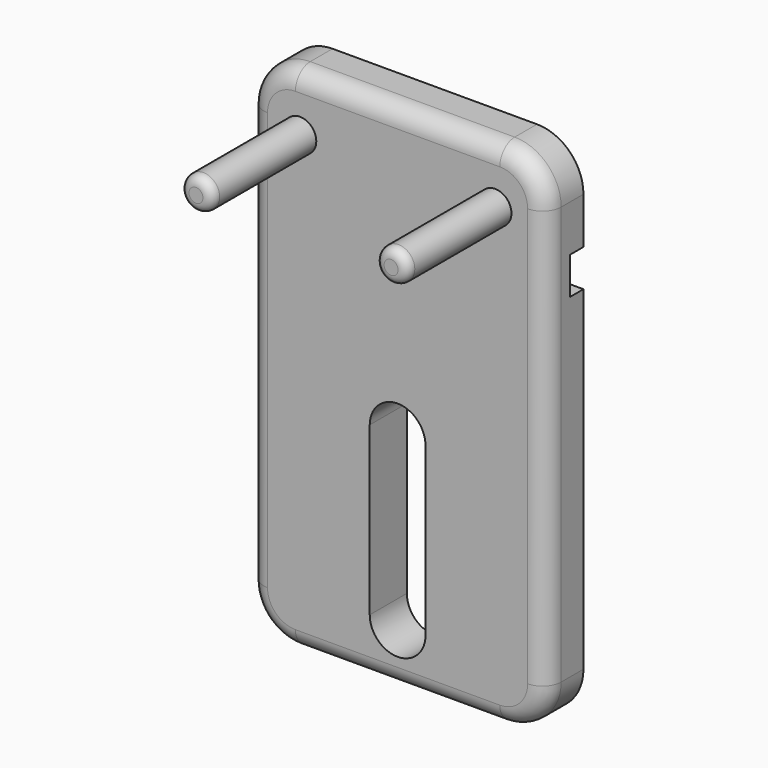
from build123d import *

# Parameters (mm, degrees)
F0_W     = 32
F0_H     = 55
F3_DEPTH = 5
F1_R     = 1.75
F4_DEPTH = 19
F5_DEPTH = 5
F6_W     = 50
F6_H     = 4
F7_DEPTH = 1.8
F8_R     = 5
F9_R     = 5
F10_R    = 5
F11_R    = 5
F12_R    = 2
F13_R    = 1


with BuildPart() as f3:
    # F0 (on Front) → F3 (new body)
    with BuildSketch(Plane.XZ):
        with Locations((-113.3904078007, -8.5524536016)):
            Rectangle(F0_W, F0_H)
    extrude(amount=F3_DEPTH)

    # F1 (on face) → F4 (join)
    with BuildSketch(Plane.XZ):
        with Locations((-123.8904078007, 12.9475463984)):
            Circle(F1_R)
        with Locations((-102.8904078007, 12.9475463984)):
            Circle(F1_R)
    extrude(amount=F4_DEPTH)

    # F2 (on face) → F5 (cut)
    with BuildSketch(Plane.XZ):
        with BuildLine():
            ThreePointArc((-116.3904078007, -12.0524536016), (-113.3904078007, -15.0524536016), (-110.3904078007, -12.0524536016))
            ThreePointArc((-110.3904078007, -12.0524536016), (-113.3904078007, -9.0524536016), (-116.3904078007, -12.0524536016))
        make_face()
        with BuildLine():
            Line((-110.3904078007, -30.0524536016), (-110.3904078007, -12.0524536016))
            ThreePointArc((-110.3904078007, -12.0524536016), (-113.3904078007, -15.0524536016), (-116.3904078007, -12.0524536016))
            Line((-116.3904078007, -12.0524536016), (-116.3904078007, -30.0524536016))
            ThreePointArc((-116.3904078007, -30.0524536016), (-113.3904078007, -27.0524536016), (-110.3904078007, -30.0524536016))
        make_face()
        with BuildLine():
            ThreePointArc((-116.3904078007, -30.0524536016), (-113.3904078007, -33.0524536016), (-110.3904078007, -30.0524536016))
            ThreePointArc((-110.3904078007, -30.0524536016), (-113.3904078007, -27.0524536016), (-116.3904078007, -30.0524536016))
        make_face()
    extrude(amount=F5_DEPTH, mode=Mode.SUBTRACT)

    # F6 (on Front) → F7 (cut)
    with BuildSketch(Plane.XZ):
        with Locations((-109.2482896921, 6.9475463984)):
            Rectangle(F6_W, F6_H)
    extrude(amount=F7_DEPTH, mode=Mode.SUBTRACT)

    # F8
    f8_edges = [f3.edges().sort_by_distance(p)[0] for p in [
        (-97.390408, -2.5, 18.947546),
    ]]
    fillet(f8_edges, radius=F8_R)

    # F9
    f9_edges = [f3.edges().sort_by_distance(p)[0] for p in [
        (-129.390408, -2.5, 18.947546),
    ]]
    fillet(f9_edges, radius=F9_R)

    # F10
    f10_edges = [f3.edges().sort_by_distance(p)[0] for p in [
        (-129.390408, -2.5, -36.052454),
    ]]
    fillet(f10_edges, radius=F10_R)

    # F11
    f11_edges = [f3.edges().sort_by_distance(p)[0] for p in [
        (-97.390408, -2.5, -36.052454),
    ]]
    fillet(f11_edges, radius=F11_R)

    # F12
    f12_edges = [f3.edges().sort_by_distance(p)[0] for p in [
        (-98.854874, -5, 17.48308),
        (-113.390408, -5, 18.947546),
        (-127.925942, -5, 17.48308),
        (-129.390408, -5, -8.552454),
        (-127.925942, -5, -34.587988),
        (-113.390408, -5, -36.052454),
        (-97.390408, -5, -8.552454),
    ]]
    fillet(f12_edges, radius=F12_R)

    # F13
    f13_edges = [f3.edges().sort_by_distance(p)[0] for p in [
        (-125.640408, -19, 12.947546),
        (-104.640408, -19, 12.947546),
    ]]
    fillet(f13_edges, radius=F13_R)


solid = f3.part
